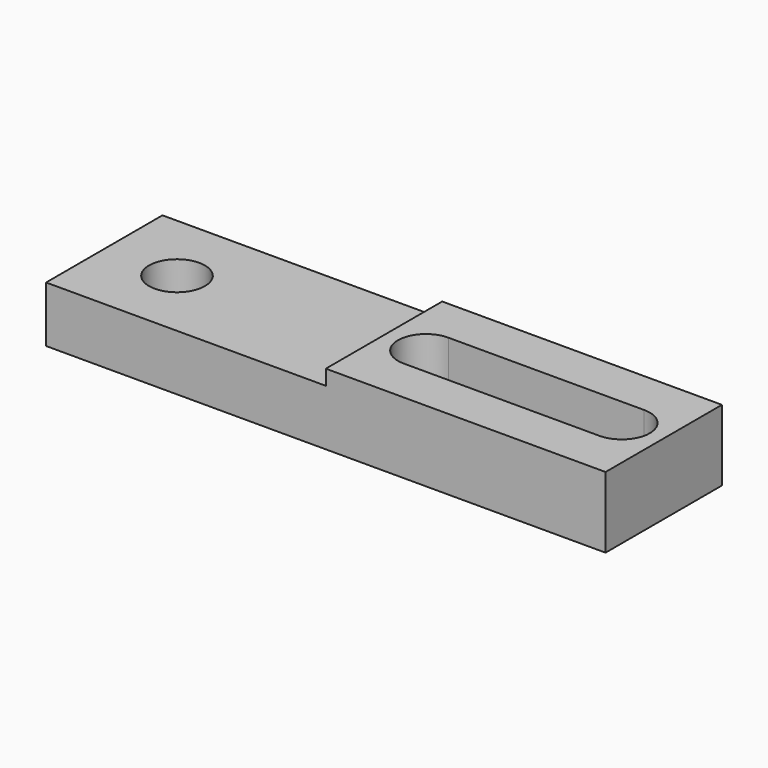
from build123d import *

# Parameters (mm, degrees)
F1_DEPTH = 20
F3_DEPTH = 25.4
F4_DEPTH = 25.4
F5_W     = 100
F5_H     = 52
F6_DEPTH = 20
F8_DEPTH = 25.4
F9_DEPTH = 25.4


with BuildPart() as f1:
    # F0 (on Top) → F1 (new body)
    with BuildSketch(Plane.XY):
        with BuildLine():
            Line((0, 26), (0, 0))
            Line((0, 0), (100, 0))
            Line((100, 0), (100, 26))
            Line((100, 26), (95, 26))
            ThreePointArc((95, 26), (92.0710678119, 18.9289321881), (85, 16))
            Line((85, 16), (15, 16))
            ThreePointArc((15, 16), (7.9289321881, 18.9289321881), (5, 26))
            Line((5, 26), (0, 26))
        make_face()
    extrude(amount=F1_DEPTH)

    # F2 (on face) → F3 (cut)
    with BuildSketch(Plane.XY.offset(20)):
        Polygon((85.6833907061, 35.9766215295), (15.6840754541, 35.9765746012), (15.6840754541, 16.0234253988), (85.6833907061, 16.0233784705), align=None)
    extrude(amount=-F3_DEPTH, mode=Mode.SUBTRACT)

    # F2 (on face) → F4 (cut)
    with BuildSketch(Plane.XY.offset(20)):
        Polygon((85.6833907061, 35.9766215295), (15.6840754541, 35.9765746012), (15.6840754541, 16.0234253988), (85.6833907061, 16.0233784705), align=None)
    extrude(amount=-F4_DEPTH, mode=Mode.SUBTRACT)

    # F5 (on Top) → F6 (join)
    with BuildSketch(Plane.XY):
        with Locations((-50, 26)):
            Rectangle(F5_W, F5_H)
    extrude(amount=F6_DEPTH)

    # F7 (on face) → F8 (cut)
    with BuildSketch(Plane.XY.offset(20)):
        with BuildLine():
            ThreePointArc((-84, 26), (-74, 16), (-64, 26))
            ThreePointArc((-64, 26), (-74, 36), (-84, 26))
        make_face()
    extrude(amount=-F8_DEPTH, mode=Mode.SUBTRACT)

    # F0 (on Top) → F9 (join)
    with BuildSketch(Plane.XY):
        with BuildLine():
            Line((0, 26), (0, 0))
            Line((0, 0), (100, 0))
            Line((100, 0), (100, 26))
            Line((100, 26), (95, 26))
            ThreePointArc((95, 26), (92.0710678119, 18.9289321881), (85, 16))
            Line((85, 16), (15, 16))
            ThreePointArc((15, 16), (7.9289321881, 18.9289321881), (5, 26))
            Line((5, 26), (0, 26))
        make_face()
        with BuildLine():
            Line((0, 52), (0, 26))
            Line((0, 26), (5, 26))
            ThreePointArc((5, 26), (7.9221367888, 33.0642658758), (14.9807704728, 35.9999815112))
            Line((14.9807704728, 35.9999815112), (84.9876315002, 35.999992351))
            ThreePointArc((84.9876315002, 35.999992351), (92.0666935338, 33.0754393856), (95, 26))
            Line((95, 26), (100, 26))
            Line((100, 26), (100, 52))
            Line((100, 52), (0, 52))
        make_face()
    extrude(amount=F9_DEPTH)


solid = f1.part
